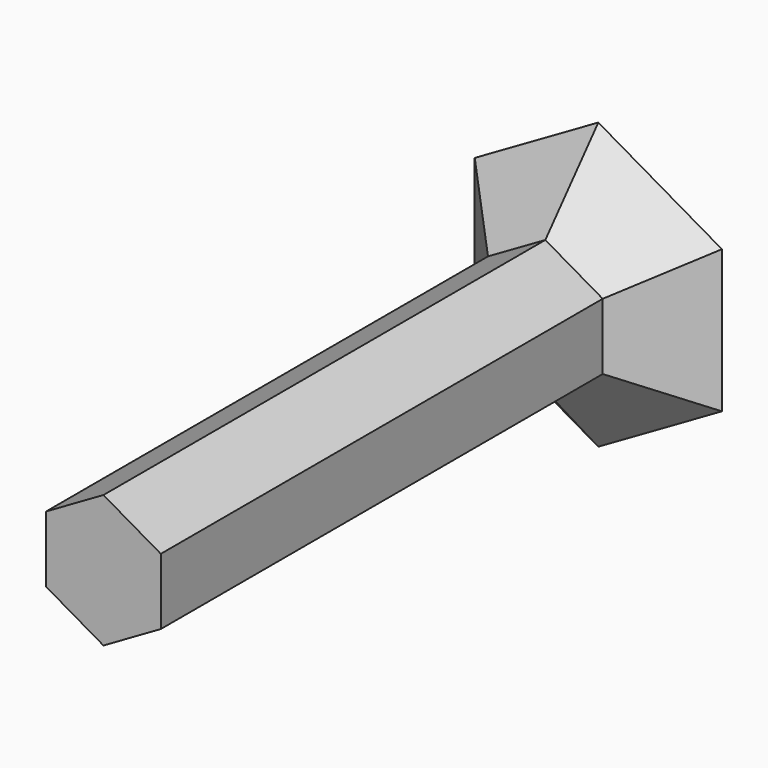
from build123d import *

# Parameters (mm, degrees)
F1_DEPTH = 211.836
F2_DEPTH = 25.4
F2_TAPER = -45


with BuildPart() as f1:
    # F0 (on Front) → F1 (new body)
    with BuildSketch(Plane.XZ):
        Polygon((19.2128300178, -11.7953536305), (19.2128300178, 13.6046463695), (-2.7842152384, 26.3046463695), (-24.7812604945, 13.6046463695), (-24.7812604945, -11.7953536305), (-2.7842152384, -24.4953536305), align=None)
    extrude(amount=F1_DEPTH)

    # F1_face (on face) → F2 (join)
    with BuildSketch(Plane(origin=(-2.7842152384, 0, 0.9046463695), x_dir=(1, 0, 0), z_dir=(0, 1, 0))):
        Polygon((21.9970452561, -12.7), (21.9970452561, 12.7), (0, 25.4), (-21.9970452561, 12.7), (-21.9970452561, -12.7), (0, -25.4), align=None)
    extrude(amount=F2_DEPTH, taper=F2_TAPER)


solid = f1.part
